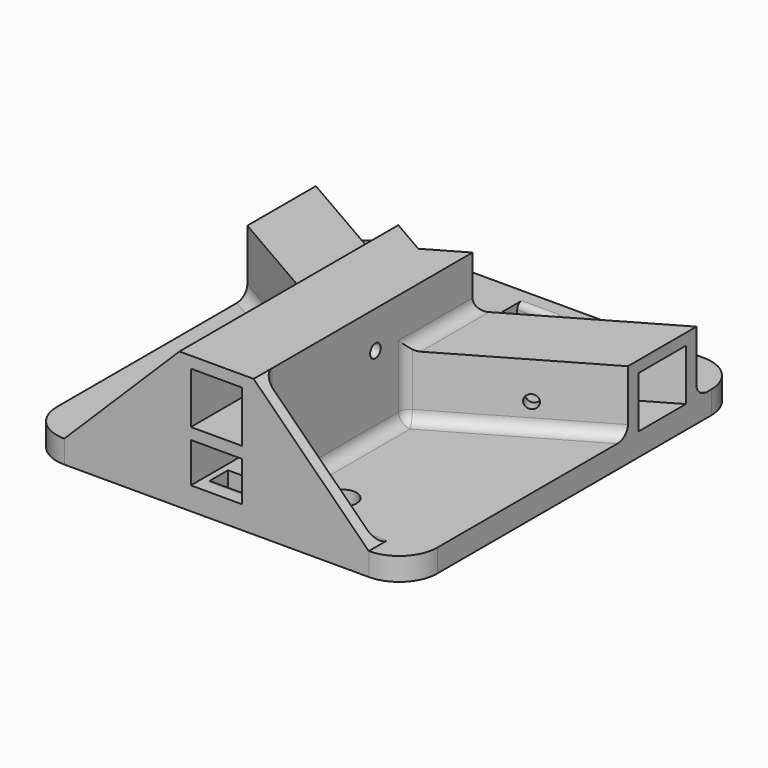
from build123d import *

# Parameters (mm, degrees)
F0_W      = 100
F0_H      = 110
F1_DEPTH  = 6
F2_W      = 10
F2_H      = 5
F3_DEPTH  = 6.001
F5_R      = 3.8
F5_R_2    = 2.6
F6_DEPTH  = 6.001
F7_DEPTH  = 13.5
F10_DEPTH = 13.5
F12_DEPTH = 3
F14_DEPTH = 3
F16_DEPTH = 3
F17_R     = 1.75
F18_DEPTH = 82.3823972081
F19_R     = 1.75
F20_DEPTH = 82.3823972081
F21_R     = 1.5
F22_R     = 10
F24_DEPTH = 3
F25_R     = 3
F26_R     = 1.75
F27_DEPTH = 59.751


with BuildPart() as f1:
    # F0 (on Top) → F1 (new body)
    with BuildSketch(Plane.XY):
        Rectangle(F0_W, F0_H)
    extrude(amount=F1_DEPTH)

    # F2 (on face) → F3 (cut, through all)
    with BuildSketch(Plane.XY.offset(6)):
        with Locations((0, 47.5)):
            Rectangle(F2_W, F2_H)
        with Locations((0, -47.5)):
            Rectangle(F2_W, F2_H)
    extrude(amount=-F3_DEPTH, mode=Mode.SUBTRACT)

    # F5 (on face) → F6 (cut, through all)
    with BuildSketch(Plane.XY.offset(6)):
        with Locations((21, -40)):
            Circle(F5_R)
        with Locations((21, 40)):
            Circle(F5_R)
        with Locations((-21, 40)):
            Circle(F5_R_2)
        with Locations((-21, -40)):
            Circle(F5_R_2)
    extrude(amount=-F6_DEPTH, mode=Mode.SUBTRACT)

    # F4 (on face) → F7 (join)
    with BuildSketch(Plane.XY.offset(6)):
        Polygon((50, 21.0732848254), (0, -7.7942286341), (-50, 21.0732848254), (-50, 17.6091832103), (-9.75, -5.6291651246), (-9.75, -55), (-6.75, -55), (-6.75, -7.3612159322), (0, -11.2583302492), (6.75, -7.3612159322), (6.75, -55), (9.75, -55), (9.75, -5.6291651246), (50, 17.6091832103), align=None)
        Polygon((-50, 36.6617420935), (0, 7.7942286341), (50, 36.6617420935), (50, 40.1258437087), (0, 11.2583302492), (-50, 40.1258437087), align=None)
    extrude(amount=F7_DEPTH)

    # F9 (on face) → F10 (join)
    with BuildSketch(Plane.XY.offset(19.5)):
        Polygon((-9.75, 16.8874953738), (-9.75, -55), (-6.75, -55), (-6.75, 15.1554445662), align=None)
        Polygon((9.75, 16.8874953738), (6.75, 15.1554445662), (6.75, -55), (9.75, -55), align=None)
    extrude(amount=F10_DEPTH)

    # F11 (on face) → F12 (join)
    with BuildSketch(Plane.XY.offset(19.5)):
        Polygon((9.75, 16.8874953738), (9.75, -5.6291651246), (50, 17.6091832103), (50, 40.1258437087), align=None)
        Polygon((-50, 40.1258437087), (-50, 17.6091832103), (-9.75, -5.6291651246), (-9.75, 16.8874953738), align=None)
    extrude(amount=F12_DEPTH)

    # F13 (on offset) → F14 (join)
    with BuildSketch(Plane.XY.offset(19.5)):
        Polygon((-6.75, -7.3612159322), (-6.75, -55), (6.75, -55), (6.75, -7.3612159322), (0, -11.2583302492), align=None)
    extrude(amount=-F14_DEPTH)

    # F15 (on face) → F16 (join)
    with BuildSketch(Plane.XY.offset(33)):
        Polygon((0, 11.2583302492), (-9.75, 16.8874953738), (-9.75, -55), (9.75, -55), (9.75, 16.8874953738), align=None)
    extrude(amount=F16_DEPTH)

    # F17 (on face) → F18 (cut, through all)
    with BuildSketch(Plane(origin=(4.875, -8.4437476869, 0), x_dir=(0.8660254038, 0.5, 0), z_dir=(0.5, -0.8660254038, 0))):
        with Locations((32.1058617944, 12.75)):
            Circle(F17_R)
    extrude(amount=-F18_DEPTH, mode=Mode.SUBTRACT)

    # F19 (on face) → F20 (cut, through all)
    with BuildSketch(Plane(origin=(-4.875, -8.4437476869, 0), x_dir=(0.8660254038, -0.5, 0), z_dir=(-0.5, -0.8660254038, 0))):
        with Locations((-32.1058617944, 12.75)):
            Circle(F19_R)
    extrude(amount=-F20_DEPTH, mode=Mode.SUBTRACT)

    # F21
    f21_edges = [f1.edges().sort_by_distance(p)[0] for p in [
        (0, 50, 6),
        (0, 50, 0),
        (0, -50, 0),
        (0, -50, 6),
    ]]
    fillet(f21_edges, radius=F21_R)

    # F22
    f22_edges = [f1.edges().sort_by_distance(p)[0] for p in [
        (-50, -55, 3),
        (50, -55, 3),
        (50, 55, 3),
        (-50, 55, 3),
    ]]
    fillet(f22_edges, radius=F22_R)

    # F23 (on face) → F24 (join)
    with BuildSketch(Plane.XZ.offset(55)):
        Polygon((-9.75, 6), (-9.75, 36), (-40, 6), align=None)
        Polygon((9.75, 6), (40, 6), (9.75, 36), align=None)
    extrude(amount=-F24_DEPTH)

    # F25
    f25_edges = [f1.edges().sort_by_distance(p)[0] for p in [
        (-9.75, 5.629165, 22.5),
        (-9.75, -28.814583, 6),
        (-9.75, -5.629165, 14.25),
        (-29.875, 5.990009, 6),
        (9.75, -28.814583, 6),
        (9.75, -5.629165, 14.25),
        (9.75, 5.629165, 22.5),
        (29.875, 5.990009, 6),
        (24.875, -52, 6),
        (-24.875, -52, 6),
        (25, 25.692087, 6),
        (-25, 25.692087, 6),
        (0, 11.25833, 12.75),
        (9.75, -52, 21),
        (-9.75, -52, 21),
    ]]
    fillet(f25_edges, radius=F25_R)

    # F26 (on face) → F27 (cut, through all)
    with BuildSketch(Plane.YZ.offset(9.75)):
        with Locations((-15, 26.25)):
            Circle(F26_R)
    extrude(amount=-F27_DEPTH, mode=Mode.SUBTRACT)


solid = f1.part
